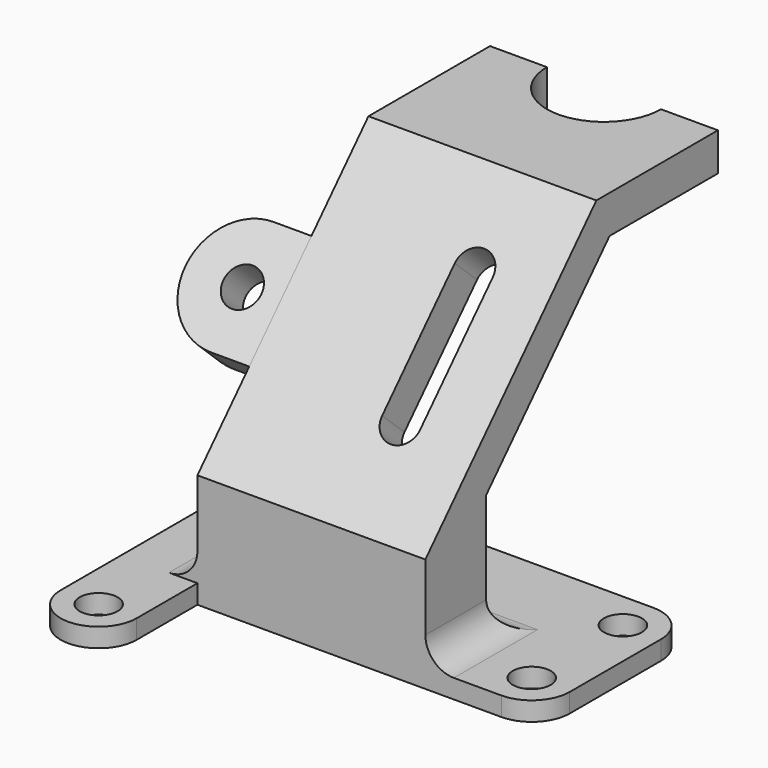
from build123d import *

# Parameters (mm, degrees)
F0_R      = 2
F1_DEPTH  = 2
F2_W      = 24
F2_H      = 8
F3_DEPTH  = 10
F5_DEPTH  = 8
F7_DEPTH  = 40
F9_DEPTH  = 25
F11_DEPTH = 24
F13_DEPTH = 4
F14_R     = 2
F15_DEPTH = 4
F17_DEPTH = 4


with BuildPart() as f1:
    # F0 (on Top) → F1 (new body)
    with BuildSketch(Plane.XY):
        with BuildLine():
            Line((40, 20), (4, 20))
            ThreePointArc((4, 20), (1.1715728753, 18.8284271247), (0, 16))
            Line((0, 16), (0, -8))
            ThreePointArc((0, -8), (4, -12), (8, -8))
            Line((8, -8), (8, 0))
            Line((8, 0), (40, 0))
            ThreePointArc((40, 0), (42.8284271247, 1.1715728753), (44, 4))
            Line((44, 4), (44, 16))
            ThreePointArc((44, 16), (42.8284271247, 18.8284271247), (40, 20))
        make_face()
        with Locations((4, -8)):
            Circle(F0_R, mode=Mode.SUBTRACT)
        with Locations((4, 16)):
            Circle(F0_R, mode=Mode.SUBTRACT)
        with Locations((40, 4)):
            Circle(F0_R, mode=Mode.SUBTRACT)
        with Locations((40, 16)):
            Circle(F0_R, mode=Mode.SUBTRACT)
    extrude(amount=F1_DEPTH)

    # F2 (on face) → F3 (join)
    with BuildSketch(Plane.XY.offset(2)):
        with Locations((20, 4)):
            Rectangle(F2_W, F2_H)
    extrude(amount=F3_DEPTH)

    # F4 (on face) → F5 (join)
    with BuildSketch(Plane.XZ):
        with BuildLine():
            Line((32, 2), (35, 2))
            ThreePointArc((35, 2), (32.8786796564, 2.8786796564), (32, 5))
            Line((32, 5), (32, 2))
        make_face()
        with BuildLine():
            Line((5, 2), (8, 2))
            Line((8, 2), (8, 5))
            ThreePointArc((8, 5), (7.1213203436, 2.8786796564), (5, 2))
        make_face()
    extrude(amount=-F5_DEPTH)

    # F6 (on face) → F7 (join)
    with BuildSketch(Plane.YZ.offset(44)):
        with BuildLine():
            ThreePointArc((11, 2), (8.8786796564, 2.8786796564), (8, 5))
            Line((8, 5), (8, 2))
            Line((8, 2), (11, 2))
        make_face()
    extrude(amount=-F7_DEPTH)

    # F8 (on face) → F9 (cut)
    with BuildSketch(Plane.XZ):
        with BuildLine():
            ThreePointArc((5, 2), (7.1213203436, 2.8786796564), (8, 5))
            Line((8, 5), (3.8540177047, 5))
            Line((3.8540177047, 5), (3.8540177047, 2))
            Line((3.8540177047, 2), (5, 2))
        make_face()
        with BuildLine():
            Line((44, 5), (32, 5))
            ThreePointArc((32, 5), (32.8786796564, 2.8786796564), (35, 2))
            Line((35, 2), (40, 2))
            Line((40, 2), (44, 2))
            Line((44, 2), (44, 5))
        make_face()
    extrude(amount=-F9_DEPTH, mode=Mode.SUBTRACT)

    # F10 (on face) → F11 (join)
    with BuildSketch(Plane.YZ.offset(32)):
        Polygon((22.5059458821, 36.1346721534), (0, 12), (8, 12), (8, 14.7138329376), (24.2451953819, 32.1346721534), (38.5059458821, 32.1346721534), (38.5059458821, 36.1346721534), align=None)
    extrude(amount=-F11_DEPTH)

    # F12 (on face) → F13 (cut)
    with BuildSketch(Plane(origin=(0, -5.9853843016, 5.5814611575), x_dir=(1, 0, 0), z_dir=(0, -0.7313537016, 0.6819983601))):
        with BuildLine():
            Line((26, 18.7762444194), (26, 32.7762444194))
            ThreePointArc((26, 32.7762444194), (24, 34.7762444194), (22, 32.7762444194))
            Line((22, 32.7762444194), (22, 18.7762444194))
            ThreePointArc((22, 18.7762444194), (24, 16.7762444194), (26, 18.7762444194))
        make_face()
    extrude(amount=-F13_DEPTH, mode=Mode.SUBTRACT)

    # F14 (on face) → F15 (join)
    with BuildSketch(Plane(origin=(0, -5.9853843016, 5.5814611575), x_dir=(1, 0, 0), z_dir=(0, -0.7313537016, 0.6819983601))):
        with BuildLine():
            Line((8, 30.7762444194), (4, 30.7762444194))
            ThreePointArc((4, 30.7762444194), (-2, 24.7762444194), (4, 18.7762444194))
            Line((4, 18.7762444194), (8, 18.7762444194))
            Line((8, 18.7762444194), (8, 30.7762444194))
        make_face()
        with Locations((4, 24.7762444194)):
            Circle(F14_R, mode=Mode.SUBTRACT)
    extrude(amount=-F15_DEPTH)

    # F16 (on face) → F17 (cut)
    with BuildSketch(Plane.XY.offset(36.1346721534)):
        with BuildLine():
            ThreePointArc((14, 38.5059458821), (20, 32.5059458821), (26, 38.5059458821))
            Line((26, 38.5059458821), (14, 38.5059458821))
        make_face()
    extrude(amount=-F17_DEPTH, mode=Mode.SUBTRACT)


solid = f1.part
